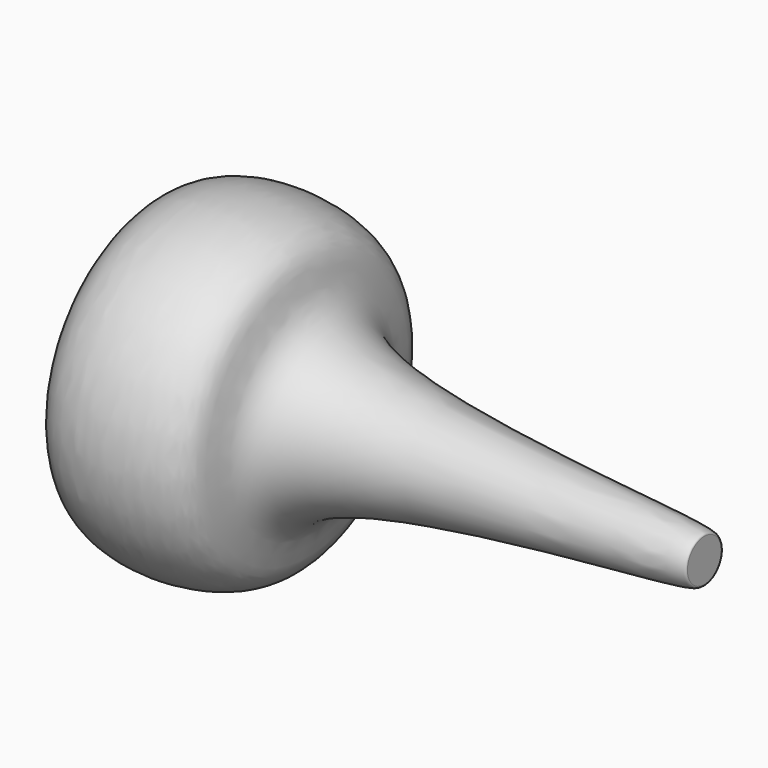
from build123d import *


with BuildPart() as f1:
    # F0 (on Front) → F1 (revolve)
    with BuildSketch(Plane.XZ):
        with BuildLine():
            add(Edge.make_bspline(
                [(-59.6842132509, 12.7105265856), (-59.8736659014, 21.113986966), (-60.2808529719, 39.175388608), (-18.199842611, 35.4748473083), (-29.9799626508, 9.2925544805), (64.8489954661, 6.9821823909), (64.9273034686, 4.8827084486), (64.9342164397, 4.6973684803)],
                knots=[0, 0, 0, 0, 0.194557264, 0.4181583216, 0.5807539897, 0.96298928, 1, 1, 1, 1], degree=3))
            Line((-59.6842132509, 12.7105265856), (-59.6842132509, 0))
            Line((-59.6842132509, 0), (64.9342164397, 0))
            Line((64.9342164397, 0), (64.9342164397, 4.6973684803))
        make_face()
    revolve(axis=Axis((2.6250015944, 0, 0), (1, 0, 0)))


solid = f1.part
